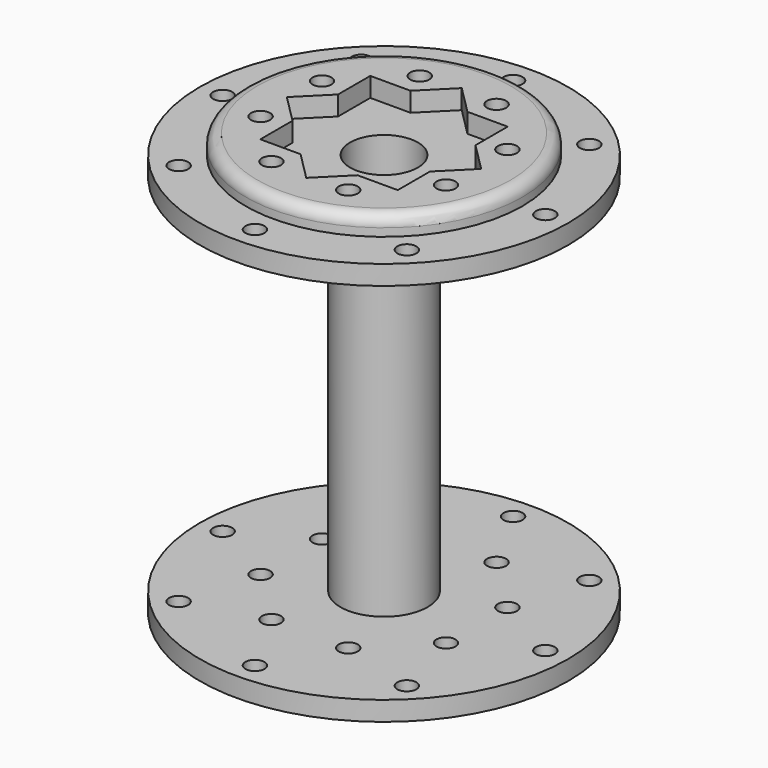
from build123d import *

# Parameters (mm, degrees)
F0_R      = 5.715
F0_R_2    = 4.445
F1_DEPTH  = 52.8
F2_R      = 24.13
F2_R_2    = 5.715
F3_DEPTH  = 2.54
F4_R      = 24.13
F4_R_2    = 5.715
F5_DEPTH  = 2.54
F6_R      = 1.25
F7_DEPTH  = 52.801
F8_R      = 18.13
F8_R_2    = 4.445
F9_DEPTH  = 2.54
F10_R     = 1.5
F11_R     = 4.445
F12_DEPTH = 2.54
F13_R     = 18.13
F13_R_2   = 4.445
F14_DEPTH = 2.54
F15_R     = 1.5
F16_R     = 4.445
F17_DEPTH = 2.54
F18_R     = 1.25
F19_DEPTH = 57.881


with BuildPart() as f1:
    # F0 (on Top) → F1 (new body)
    with BuildSketch(Plane.XY):
        Circle(F0_R)
        Circle(F0_R_2, mode=Mode.SUBTRACT)
    extrude(amount=F1_DEPTH)

    # F2 (on face) → F3 (join)
    with BuildSketch(Plane.XY.offset(52.8)):
        Circle(F2_R)
        Circle(F2_R_2, mode=Mode.SUBTRACT)
    extrude(amount=-F3_DEPTH)

    # F4 (on face) → F5 (join)
    with BuildSketch(Plane(origin=(0, 0, 0), x_dir=(1, 0, 0), z_dir=(0, 0, -1))):
        Circle(F4_R)
        Circle(F4_R_2, mode=Mode.SUBTRACT)
    extrude(amount=-F5_DEPTH)

    # F6 (on face) → F7 (cut, through all)
    with BuildSketch(Plane(origin=(0, 0, 0), x_dir=(1, 0, 0), z_dir=(0, 0, -1))):
        with Locations((-21.13, 0)):
            Circle(F6_R)
        with Locations((-14.941166, -14.941166)):
            Circle(F6_R)
        with Locations((0, -21.13)):
            Circle(F6_R)
        with Locations((14.941166, -14.941166)):
            Circle(F6_R)
        with Locations((21.13, 0)):
            Circle(F6_R)
        with Locations((14.941166, 14.941166)):
            Circle(F6_R)
        with Locations((0, 21.13)):
            Circle(F6_R)
        with Locations((-14.941166, 14.941166)):
            Circle(F6_R)
    extrude(amount=-F7_DEPTH, mode=Mode.SUBTRACT)

    # F8 (on face) → F9 (join)
    with BuildSketch(Plane(origin=(0, 0, 0), x_dir=(1, 0, 0), z_dir=(0, 0, -1))):
        Circle(F8_R)
        Circle(F8_R_2, mode=Mode.SUBTRACT)
    extrude(amount=F9_DEPTH)

    # F10
    f10_edges = [f1.edges().sort_by_distance(p)[0] for p in [
        (-18.13, 0, -2.54),
    ]]
    fillet(f10_edges, radius=F10_R)

    # F11 (on face) → F12 (cut)
    with BuildSketch(Plane(origin=(0, 0, -2.54), x_dir=(1, 0, 0), z_dir=(0, 0, -1))):
        Polygon((3.727945, 9.000055), (0, 12.728), (-3.727945, 9.000055), (-9.000055, 9.000055), (-9.000055, 3.727945), (-12.728, 0), (-9.000055, -3.727945), (-9.000055, -9.000055), (-3.727945, -9.000055), (0, -12.728), (3.727945, -9.000055), (9.000055, -9.000055), (9.000055, -3.727945), (12.728, 0), (9.000055, 3.727945), (9.000055, 9.000055), align=None)
        Circle(F11_R, mode=Mode.SUBTRACT)
        Circle(F11_R)
    extrude(amount=-F12_DEPTH, mode=Mode.SUBTRACT)

    # F13 (on face) → F14 (join)
    with BuildSketch(Plane.XY.offset(52.8)):
        Circle(F13_R)
        Circle(F13_R_2, mode=Mode.SUBTRACT)
    extrude(amount=F14_DEPTH)

    # F15
    f15_edges = [f1.edges().sort_by_distance(p)[0] for p in [
        (-18.13, 0, 55.34),
    ]]
    fillet(f15_edges, radius=F15_R)

    # F16 (on face) → F17 (cut)
    with BuildSketch(Plane.XY.offset(55.34)):
        Polygon((3.727945, 9.000055), (0, 12.728), (-3.727945, 9.000055), (-9.000055, 9.000055), (-9.000055, 3.727945), (-12.728, 0), (-9.000055, -3.727945), (-9.000055, -9.000055), (-3.727945, -9.000055), (0, -12.728), (3.727945, -9.000055), (9.000055, -9.000055), (9.000055, -3.727945), (12.728, 0), (9.000055, 3.727945), (9.000055, 9.000055), align=None)
        Circle(F16_R, mode=Mode.SUBTRACT)
    extrude(amount=-F17_DEPTH, mode=Mode.SUBTRACT)

    # F18 (on face) → F19 (cut, through all)
    with BuildSketch(Plane.XY.offset(55.34)):
        with Locations((-12.141246, 5.029069)):
            Circle(F18_R)
        with Locations((-12.141246, -5.029069)):
            Circle(F18_R)
        with Locations((-5.029069, -12.141246)):
            Circle(F18_R)
        with Locations((5.029069, -12.141246)):
            Circle(F18_R)
        with Locations((12.141246, -5.029069)):
            Circle(F18_R)
        with Locations((12.141246, 5.029069)):
            Circle(F18_R)
        with Locations((5.029069, 12.141246)):
            Circle(F18_R)
        with Locations((-5.029069, 12.141246)):
            Circle(F18_R)
    extrude(amount=-F19_DEPTH, mode=Mode.SUBTRACT)


solid = f1.part
